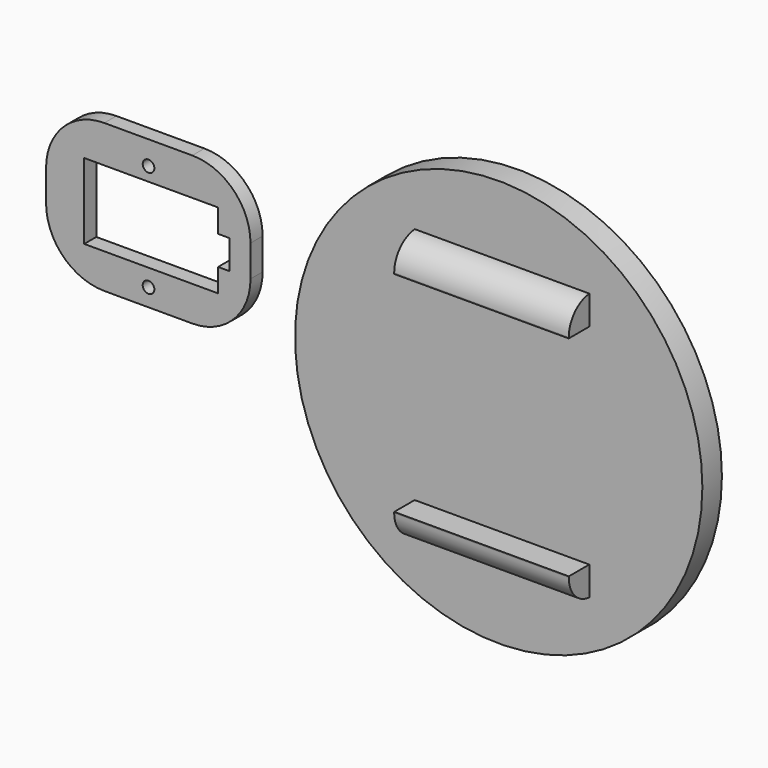
from build123d import *

# Parameters (mm, degrees)
F0_R       = 2.54
F1_DEPTH   = 6.604
F2_R       = 25.4
F3_R       = 25.4
F4_R       = 25.4
F5_R       = 25.4
F7_DEPTH   = 21.844
F6_R       = 88.9
F6_R_2     = 2.54
F8_DEPTH   = 10.668
F9_R       = 12.264205
F10_R      = 12.264205
F12_D      = 17.78
F11_R      = 8.89
F13_DEPTH  = 7.62
F13_FACE_R = 8.89
F14_DEPTH  = 3.048
F15_R      = 8.89
F16_DEPTH  = 2.032
F17_DEPTH  = 2.286
F18_R      = 8.89
F19_DEPTH  = 5.334
F1_FACE_W  = 6.604
F1_FACE_H  = 33.02
F20_DEPTH  = 5.08


with BuildPart() as f1:
    # F0 (on Front) → F1 (new body)
    with BuildSketch(Plane.XZ):
        Polygon((-66.610932, -12.045752), (-32.362044, -12.149008), (22.608856, -12.149008), (22.608856, 52.422736), (-66.610932, 52.422736), align=None)
        with Locations((-21.892127, -4.438743)):
            Circle(F0_R, mode=Mode.SUBTRACT)
        Polygon((-49.957503, 3.090992), (-49.957503, 36.110992), (8.462497, 36.110992), (8.462497, 25.950992), (13.542497, 25.950992), (13.542497, 13.250992), (8.462497, 13.250992), (8.462497, 3.090992), align=None, mode=Mode.SUBTRACT)
        with Locations((-21.892127, 42.108711)):
            Circle(F0_R, mode=Mode.SUBTRACT)
    extrude(amount=F1_DEPTH)

    # F2
    f2_edges = [f1.edges().sort_by_distance(p)[0] for p in [
        (22.608856, -3.302, -12.149008),
    ]]
    fillet(f2_edges, radius=F2_R)

    # F3
    f3_edges = [f1.edges().sort_by_distance(p)[0] for p in [
        (22.608856, -3.302, 52.422736),
    ]]
    fillet(f3_edges, radius=F3_R)

    # F4
    f4_edges = [f1.edges().sort_by_distance(p)[0] for p in [
        (-66.610932, -3.302, 52.422736),
    ]]
    fillet(f4_edges, radius=F4_R)

    # F5
    f5_edges = [f1.edges().sort_by_distance(p)[0] for p in [
        (-66.610932, -3.302, -12.045752),
    ]]
    fillet(f5_edges, radius=F5_R)

    # F1_face (on face) → F20 (join)
    with BuildSketch(Plane(origin=(-49.957503, -3.302, 19.600992), x_dir=(0, 1, 0), z_dir=(1, 0, 0))):
        Rectangle(F1_FACE_W, F1_FACE_H)
    extrude(amount=-F20_DEPTH)


with BuildPart() as f7:
    # F6 (on Front) → F7 (new body)
    with BuildSketch(Plane.XZ):
        Polygon((173.720603, 58.408517), (135.620603, 58.408517), (97.520603, 58.408517), (97.520603, 45.708517), (173.720603, 45.708517), align=None)
        Polygon((97.520603, -58.408517), (135.620603, -58.408517), (173.720603, -58.408517), (173.720603, -45.708517), (97.520603, -45.708517), align=None)
    extrude(amount=F7_DEPTH)

    # F9
    f9_edges = [f7.edges().sort_by_distance(p)[0] for p in [
        (135.620603, -21.844, -58.408517),
    ]]
    fillet(f9_edges, radius=F9_R)

    # F10
    f10_edges = [f7.edges().sort_by_distance(p)[0] for p in [
        (135.620603, -21.844, 58.408517),
    ]]
    fillet(f10_edges, radius=F10_R)


with BuildPart() as f8:
    # F6 (on Front) → F8 (new body)
    with BuildSketch(Plane.XZ):
        with Locations((134.191751, 0)):
            Circle(F6_R)
        Polygon((173.720603, -58.408517), (135.620603, -58.408517), (97.520603, -58.408517), (97.520603, -45.708517), (173.720603, -45.708517), align=None, mode=Mode.SUBTRACT)
        with Locations((134.191751, 0)):
            Circle(F6_R_2, mode=Mode.SUBTRACT)
        Polygon((97.520603, 58.408517), (135.620603, 58.408517), (173.720603, 58.408517), (173.720603, 45.708517), (97.520603, 45.708517), align=None, mode=Mode.SUBTRACT)
    extrude(amount=F8_DEPTH)

    # F12 (through all)
    with Locations(Plane(origin=(0, 0, 0), x_dir=(1, 0, 0), z_dir=(0, 1, 0))):
        with Locations((134.202927, 0)):
            Hole(F12_D / 2)

    # F11 (on Front) → F13 (join)
    with BuildSketch(Plane.XZ):
        with Locations((134.202927, 0)):
            Circle(F11_R)
    extrude(amount=F13_DEPTH)

    # F13_face (on face) → F14 (join)
    with BuildSketch(Plane(origin=(134.202927, -7.62, 0), x_dir=(1, 0, 0), z_dir=(0, -1, 0))):
        Circle(F13_FACE_R)
    extrude(amount=F14_DEPTH)

    # F15 (on Front) → F16 (join)
    with BuildSketch(Plane.XZ):
        with Locations((132.709876, 0)):
            Circle(F15_R)
    extrude(amount=F16_DEPTH)

    # F15 (on Front) → F17 (join)
    with BuildSketch(Plane.XZ):
        with Locations((132.709876, 0)):
            Circle(F15_R)
    extrude(amount=F17_DEPTH)

    # F18 (on Front) → F19 (join)
    with BuildSketch(Plane.XZ):
        with Locations((135.060295, 0)):
            Circle(F18_R)
    extrude(amount=F19_DEPTH)


solid = Compound([f1.part, f7.part, f8.part])
